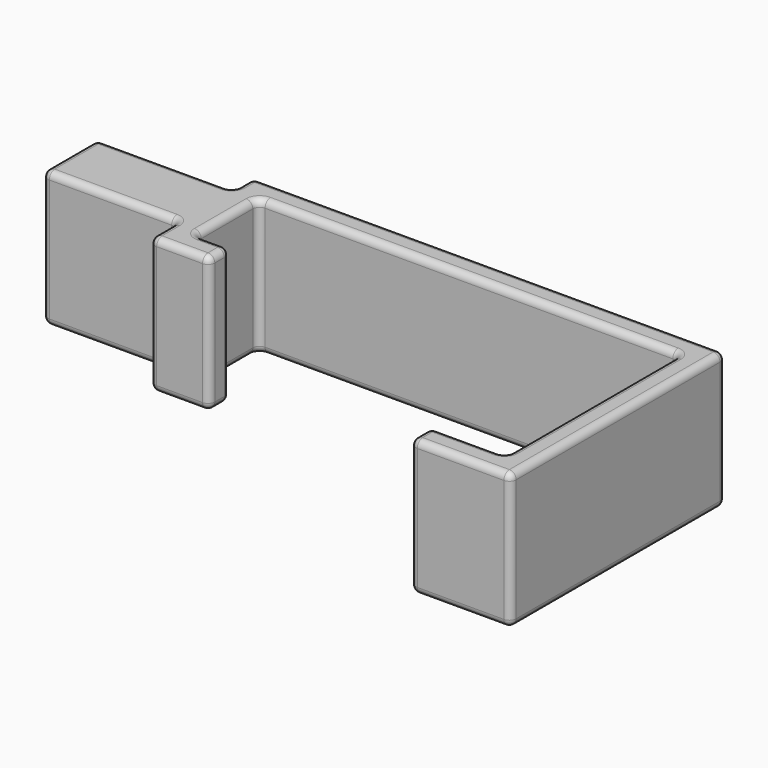
from build123d import *

# Parameters (mm, degrees)
PAD_DEPTH = 40
FILLET_R  = 2


with BuildPart() as part:
    # Sketch (on XY_Plane of Origin) → Pad (new body)
    with BuildSketch(Plane.XY):
        Polygon((0, -2), (0, -9.5), (29.5, -9.5), (29.5, 69.5), (-109.5, 69.5), (-109.5, 62), (-149.5, 62), (-149.5, 42), (-109.5, 42), (-109.5, 31.5), (-92, 31.5), (-92, 39), (-102, 39), (-102, 62), (22, 62), (22, -2), align=None)
    extrude(amount=PAD_DEPTH)

    # Fillet
    fillet_edges = [part.edges().sort_by_distance(p)[0] for p in [
        (0, -2, 20),
        (0, -9.5, 20),
        (0, -5.75, 0),
        (0, -5.75, 40),
        (29.5, -9.5, 20),
        (14.75, -9.5, 0),
        (14.75, -9.5, 40),
        (29.5, 69.5, 20),
        (29.5, 30, 0),
        (29.5, 30, 40),
        (-109.5, 69.5, 20),
        (-40, 69.5, 0),
        (-40, 69.5, 40),
        (-109.5, 62, 20),
        (-109.5, 65.75, 0),
        (-109.5, 65.75, 40),
        (-149.5, 62, 20),
        (-129.5, 62, 0),
        (-129.5, 62, 40),
        (-149.5, 42, 20),
        (-149.5, 52, 0),
        (-149.5, 52, 40),
        (-109.5, 42, 20),
        (-129.5, 42, 0),
        (-129.5, 42, 40),
        (-109.5, 31.5, 20),
        (-109.5, 36.75, 0),
        (-109.5, 36.75, 40),
        (-92, 31.5, 20),
        (-100.75, 31.5, 0),
        (-100.75, 31.5, 40),
        (-92, 39, 20),
        (-92, 35.25, 0),
        (-92, 35.25, 40),
        (-102, 39, 20),
        (-97, 39, 0),
        (-97, 39, 40),
        (-102, 62, 20),
        (-102, 50.5, 0),
        (-102, 50.5, 40),
        (22, 62, 20),
        (-40, 62, 0),
        (-40, 62, 40),
        (22, -2, 20),
        (22, 30, 0),
        (22, 30, 40),
        (11, -2, 0),
        (11, -2, 40),
    ]]
    fillet(fillet_edges, radius=FILLET_R)


solid = part.part
